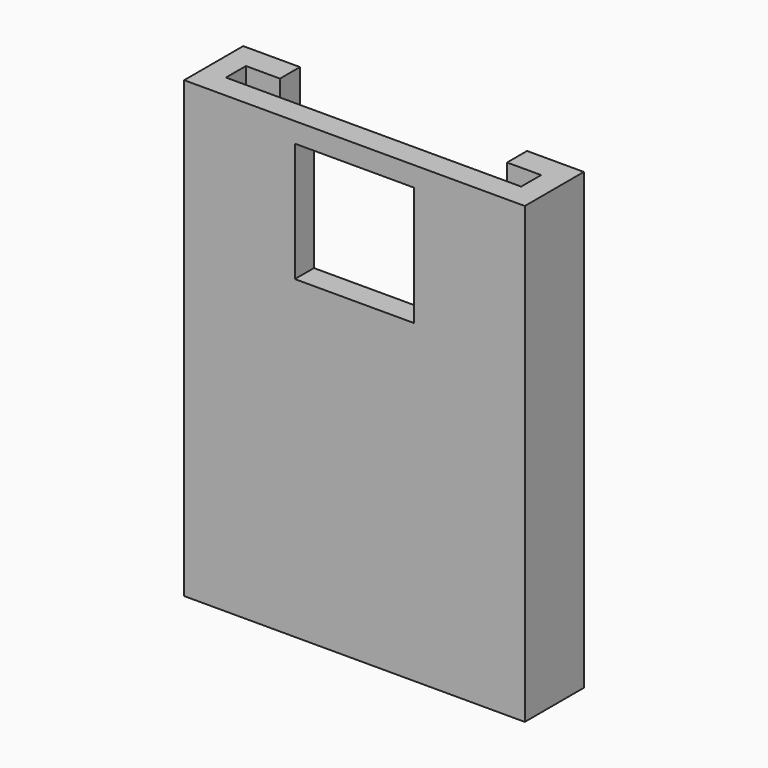
from build123d import *

# Parameters (mm, degrees)
F1_DEPTH = 50.8
F2_W     = 26.67
F2_H     = 26.67
F3_DEPTH = 16.511


with BuildPart() as f1:
    # F0 (on Top) → F1 (new body, symmetric)
    with BuildSketch(Plane.XY):
        Polygon((-38.1, 11.176), (-38.1, -5.334), (0, -5.334), (38.1, -5.334), (38.1, 11.176), (25.4, 11.176), (25.4, 5.588), (33.02, 5.588), (33.02, 0), (0, 0), (-33.02, 0), (-33.02, 5.588), (-25.4, 5.588), (-25.4, 11.176), align=None)
    extrude(amount=F1_DEPTH, both=True)

    # F2 (on face) → F3 (cut, through all)
    with BuildSketch(Plane.XZ.offset(5.334)):
        with Locations((0, 33.02)):
            Rectangle(F2_W, F2_H)
    extrude(amount=-F3_DEPTH, mode=Mode.SUBTRACT)


solid = f1.part
